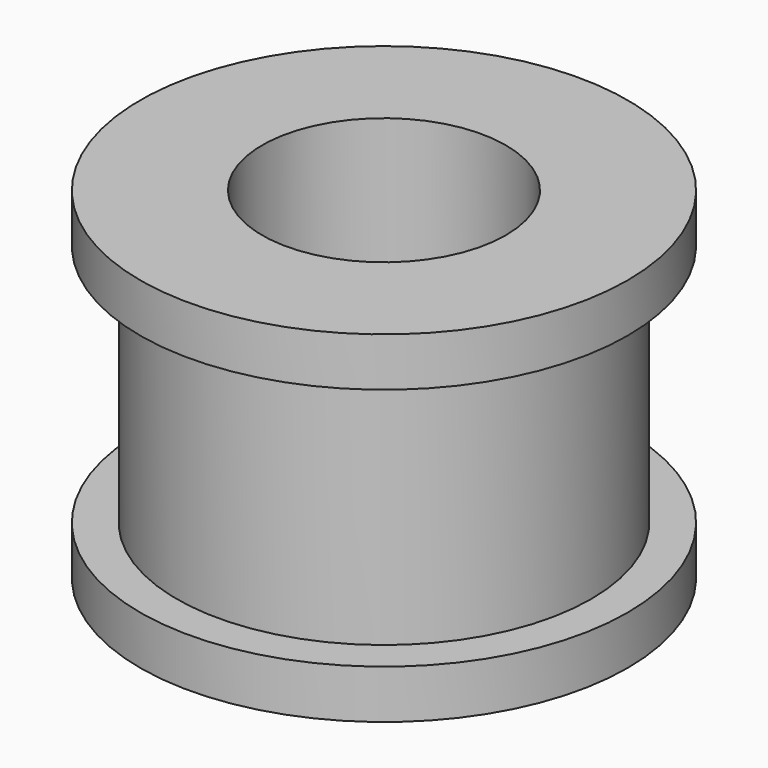
from build123d import *

# Parameters (mm, degrees)
F0_R          = 10
F1_DEPTH      = 2
F2_R          = 8.5
F3_DEPTH      = 10
F4_R          = 10
F5_DEPTH      = 2
F6_R          = 5
F7_DEPTH      = 20
F7_DEPTH_BACK = 6


with BuildPart() as f1:
    # F0 (on Top) → F1 (new body)
    with BuildSketch(Plane.XY):
        Circle(F0_R)
    extrude(amount=F1_DEPTH)

    # F2 (on face) → F3 (join)
    with BuildSketch(Plane.XY.offset(2)):
        Circle(F2_R)
    extrude(amount=F3_DEPTH)

    # F4 (on face) → F5 (join)
    with BuildSketch(Plane.XY.offset(12)):
        Circle(F4_R)
    extrude(amount=F5_DEPTH)

    # F6 (on face) → F7 (cut, two sides)
    with BuildSketch(Plane.XY.offset(14)) as f7_sk:
        Circle(F6_R)
    extrude(amount=-F7_DEPTH, mode=Mode.SUBTRACT)
    extrude(f7_sk.sketch, amount=-F7_DEPTH_BACK, mode=Mode.SUBTRACT)


solid = f1.part
